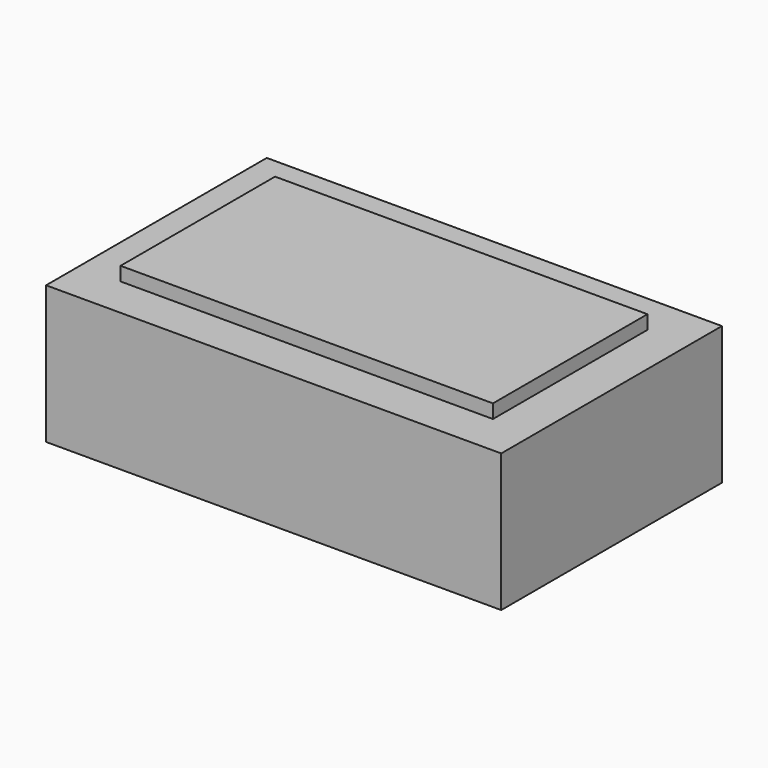
from build123d import *

# Parameters (mm, degrees)
F0_W     = 838.2
F0_H     = 508
F0_W_2   = 685.8
F0_H_2   = 355.6
F1_DEPTH = 254
F2_DEPTH = 279.4
F3_T     = -0.254


with BuildPart() as f1:
    # F0 (on Top) → F1 (new body)
    with BuildSketch(Plane.XY):
        with Locations((-259.4876274824, 118.1668707132)):
            Rectangle(F0_W, F0_H)
        with Locations((-259.4876274824, 118.1668707132)):
            Rectangle(F0_W_2, F0_H_2, mode=Mode.SUBTRACT)
        with Locations((-259.4876274824, 118.1668707132)):
            Rectangle(F0_W_2, F0_H_2)
    extrude(amount=F1_DEPTH)

    # F0 (on Top) → F2 (join)
    with BuildSketch(Plane.XY):
        with Locations((-259.4876274824, 118.1668707132)):
            Rectangle(F0_W_2, F0_H_2)
    extrude(amount=F2_DEPTH)

    # F3
    f3_openings = [f1.faces().sort_by_distance(p)[0] for p in [
        (-259.487627, 118.166871, 0),
    ]]
    offset(amount=F3_T, openings=f3_openings, kind=Kind.INTERSECTION)


solid = f1.part
